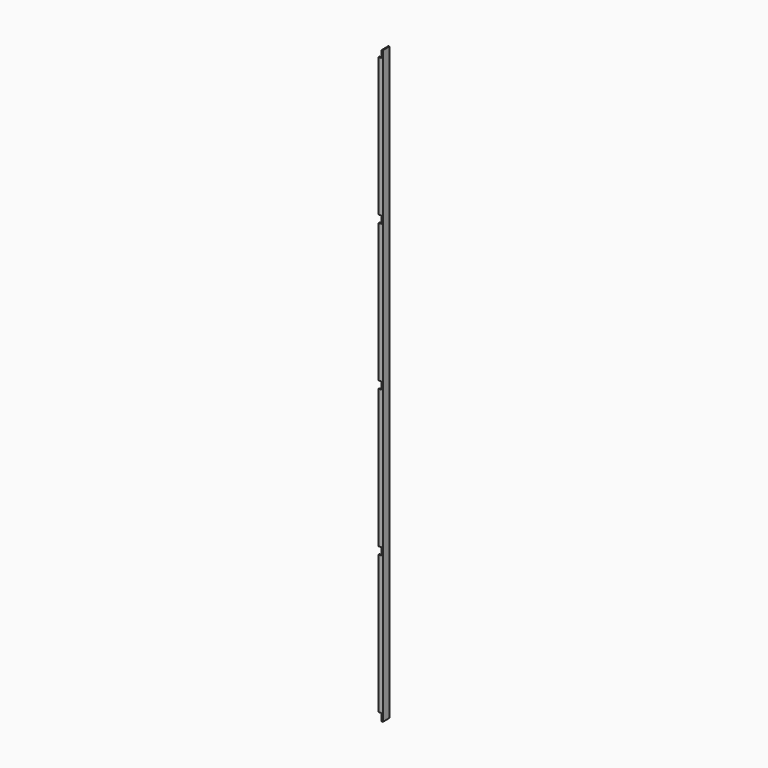
from build123d import *

# Parameters (mm, degrees)
F1_DEPTH = 2025
F2_W     = 10.75
F2_H     = 25
F3_DEPTH = 3.501
F4_W     = 10.75
F4_H     = 3.5
F5_DEPTH = 2000.001


with BuildPart() as f1:
    # F0 (on Top) → F1 (new body)
    with BuildSketch(Plane.XY):
        Polygon((-14.25, 0), (-14.25, -3.5), (10.75, -3.5), (10.75, 0), (0, 0), (0, 25), (-3.5, 25), (-3.5, 0), align=None)
    extrude(amount=F1_DEPTH)

    # F2 (on face) → F3 (cut, through all)
    with BuildSketch(Plane(origin=(0, 0, 0), x_dir=(-1, 0, 0), z_dir=(0, 1, 0))):
        with Locations((8.875, 12.5)):
            Rectangle(F2_W, F2_H)
        Polygon((-10.75, 2012.5), (-10.75, 2000), (0, 2000), (0, 2025), (-10.75, 2025), align=None)
        Polygon((-10.75, 1512.5), (-10.75, 1500), (0, 1500), (0, 1525), (-10.75, 1525), align=None)
        Polygon((-10.75, 1012.5), (-10.75, 1000), (0, 1000), (0, 1025), (-10.75, 1025), align=None)
        Polygon((-10.75, 512.5), (-10.75, 500), (0, 500), (0, 525), (-10.75, 525), align=None)
        Polygon((-10.75, 0), (0, 0), (0, 25), (-10.75, 25), (-10.75, 12.5), align=None)
        with Locations((8.875, 2012.5)):
            Rectangle(F2_W, F2_H)
        with Locations((8.875, 1512.5)):
            Rectangle(F2_W, F2_H)
        with Locations((8.875, 1012.5)):
            Rectangle(F2_W, F2_H)
        with Locations((8.875, 512.5)):
            Rectangle(F2_W, F2_H)
    extrude(amount=-F3_DEPTH, mode=Mode.SUBTRACT)

    # F4 (on face) → F5 (cut, through all)
    with BuildSketch(Plane.XY.offset(2000)):
        with Locations((5.375, -1.75)):
            Rectangle(F4_W, F4_H)
    extrude(amount=-F5_DEPTH, mode=Mode.SUBTRACT)


solid = f1.part
